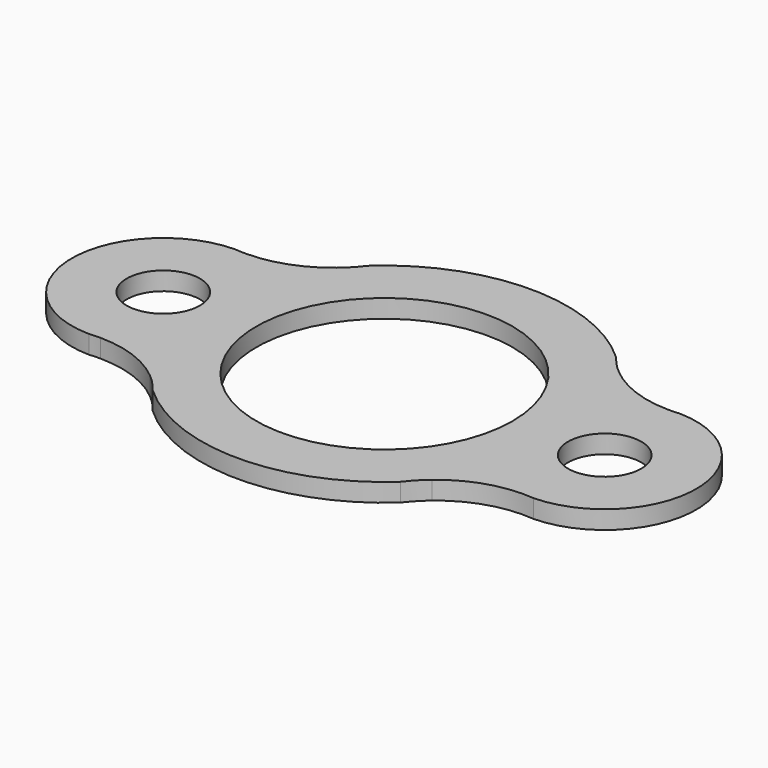
from build123d import *

# Parameters (mm, degrees)
F0_R     = 12.7
F1_DEPTH = 6.35


with BuildPart() as f1:
    # F0 (on Top) → F1 (new body)
    with BuildSketch(Plane.XY):
        with BuildLine():
            ThreePointArc((-73.303587, -31.567672), (-60.319875, -33.890968), (-48.906375, -40.502055))
            ThreePointArc((-48.906375, -40.502055), (-45.783372, -43.442534), (-43.010688, -46.715423))
            ThreePointArc((-43.010688, -46.715423), (0, -63.5), (43.010688, -46.715423))
            ThreePointArc((43.010688, -46.715423), (45.783372, -43.442534), (48.906375, -40.502055))
            ThreePointArc((48.906375, -40.502055), (62.107619, -33.286067), (77.072974, -31.742878))
            ThreePointArc((77.072974, -31.742878), (108.150526, 0), (77.072974, 31.742878))
            ThreePointArc((77.072974, 31.742878), (75.049156, 31.602276), (73.020724, 31.569597))
            ThreePointArc((73.020724, 31.569597), (60.187156, 33.93985), (48.906375, 40.502055))
            ThreePointArc((48.906375, 40.502055), (45.783372, 43.442534), (43.010688, 46.715423))
            ThreePointArc((43.010688, 46.715423), (0, 63.5), (-43.010688, 46.715423))
            ThreePointArc((-43.010688, 46.715423), (-45.783372, 43.442534), (-48.906375, 40.502055))
            ThreePointArc((-48.906375, 40.502055), (-60.319875, 33.890968), (-73.303587, 31.567672))
            ThreePointArc((-73.303587, 31.567672), (-75.213159, 31.609643), (-77.118228, 31.747263))
            ThreePointArc((-77.118228, 31.747263), (-108.451321, 0), (-77.118228, -31.747263))
            ThreePointArc((-77.118228, -31.747263), (-75.213159, -31.609643), (-73.303587, -31.567672))
        make_face()
        with Locations((-76.701321, 0)):
            Circle(F0_R, mode=Mode.SUBTRACT)
        with BuildLine():
            ThreePointArc((-44.45, 0), (0, 44.45), (44.45, 0))
            ThreePointArc((44.45, 0), (0, -44.45), (-44.45, 0))
        make_face(mode=Mode.SUBTRACT)
        with Locations((76.400526, 0)):
            Circle(F0_R, mode=Mode.SUBTRACT)
    extrude(amount=F1_DEPTH)


solid = f1.part
